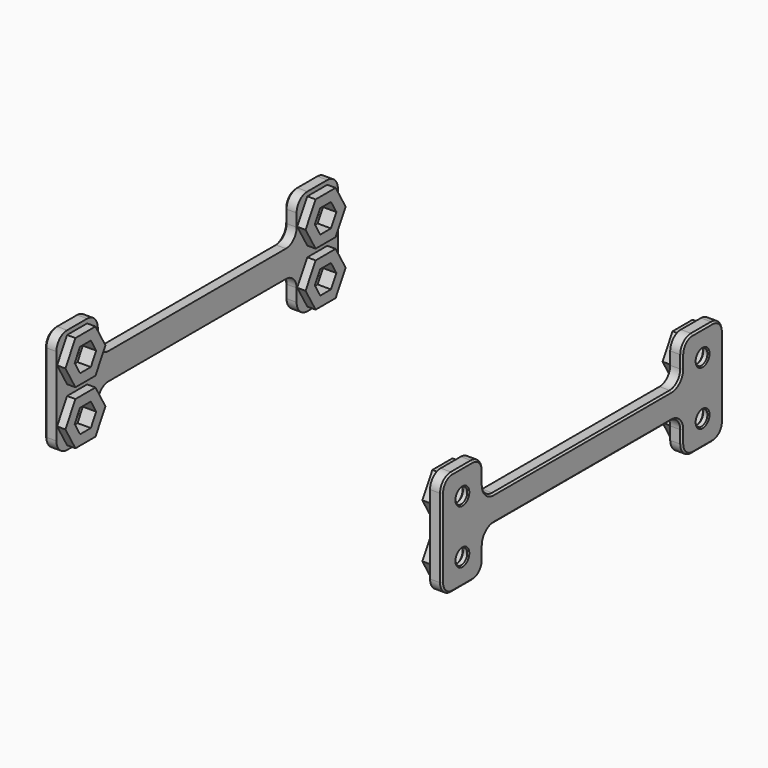
from build123d import *

# Parameters (mm, degrees)
SKETCH027_R     = 2.25
PAD010_DEPTH    = 3.5
SKETCH028_R     = 2.25
PAD011_DEPTH    = 2.5
POCKET015_DEPTH = 4
FILLET003_R     = 4
CHAMFER013_SIZE = 0.35
CHAMFER014_SIZE = 0.5
ARRAY005_COUNT  = 2


with BuildPart() as part:
    # Sketch027 → Pad010 (new body)
    with BuildSketch(Plane.YZ):
        Polygon((-37.25, 83.9), (-37.25, 72.1), (37.25, 72.1), (37.25, 83.9), (52.75, 83.9), (52.75, 52.3), (37.25, 52.3), (37.25, 64.1), (-37.25, 64.1), (-37.25, 52.3), (-52.75, 52.3), (-52.75, 83.9), align=None)
        with Locations((45, 60.05)):
            Circle(SKETCH027_R, mode=Mode.SUBTRACT)
        with Locations((45, 76.15)):
            Circle(SKETCH027_R, mode=Mode.SUBTRACT)
        with Locations((-45, 76.15)):
            Circle(SKETCH027_R, mode=Mode.SUBTRACT)
        with Locations((-45, 60.05)):
            Circle(SKETCH027_R, mode=Mode.SUBTRACT)
    extrude(amount=PAD010_DEPTH)

    # Sketch028 (on Face17 of Pad010) → Pad011 (join)
    with BuildSketch(Plane(origin=(0, 0, 0), x_dir=(0, 1, 0), z_dir=(-1, 0, 0))):
        Polygon((48.752777, -66.55), (52.505553, -60.05), (48.752777, -53.55), (41.247223, -53.55), (37.494447, -60.05), (41.247223, -66.55), align=None)
        with Locations((45, -60.05)):
            Circle(SKETCH028_R, mode=Mode.SUBTRACT)
        Polygon((48.752777, -82.65), (52.505553, -76.15), (48.752777, -69.65), (41.247223, -69.65), (37.494447, -76.15), (41.247223, -82.65), align=None)
        with Locations((45, -76.15)):
            Circle(SKETCH028_R, mode=Mode.SUBTRACT)
    pad011 = extrude(amount=PAD011_DEPTH)

    # Mirrored007: Pad011 across Sketch028 V_Axis
    add(pad011.mirror(Plane(origin=(0, 0, 0), x_dir=(-1, 0, 0), z_dir=(0, 1, 0))))

    # Sketch029 (on Face45 of Mirrored007) → Pocket015 (cut)
    with BuildSketch(Plane(origin=(-2.5, 0, 0), x_dir=(0, 1, 0), z_dir=(-1, 0, 0))):
        Polygon((-42.979274, -63.55), (-40.958548, -60.05), (-42.979274, -56.55), (-47.020726, -56.55), (-49.041452, -60.05), (-47.020726, -63.55), align=None)
        Polygon((-42.979274, -79.65), (-40.958548, -76.15), (-42.979274, -72.65), (-47.020726, -72.65), (-49.041452, -76.15), (-47.020726, -79.65), align=None)
    pocket015 = extrude(amount=-POCKET015_DEPTH, mode=Mode.SUBTRACT)

    # Mirrored008: Pocket015 across XZ
    add(pocket015.mirror(Plane.XZ), mode=Mode.SUBTRACT)

    # Fillet003
    fillet003_edges = [part.edges().sort_by_distance(p)[0] for p in [
        (1.75, 37.25, 72.1),
        (1.75, 37.25, 83.9),
        (1.75, -37.25, 83.9),
        (1.75, -37.25, 72.1),
        (1.75, -52.75, 83.9),
        (1.75, 52.75, 83.9),
        (1.75, 37.25, 64.1),
        (1.75, 37.25, 52.3),
        (1.75, 52.75, 52.3),
        (1.75, -37.25, 52.3),
        (1.75, -52.75, 52.3),
        (1.75, -37.25, 64.1),
    ]]
    fillet(fillet003_edges, radius=FILLET003_R)

    # Chamfer013
    chamfer013_edges = [part.edges().sort_by_distance(p)[0] for p in [
        (1.5, -47.25, 76.15),
        (2.5, -42.75, 76.15),
        (3.5, -47.25, 76.15),
        (1.5, -47.25, 60.05),
        (2.5, -42.75, 60.05),
        (3.5, -47.25, 60.05),
        (1.5, 42.75, 60.05),
        (2.5, 47.25, 60.05),
        (3.5, 42.75, 60.05),
        (1.5, 42.75, 76.15),
        (2.5, 47.25, 76.15),
        (3.5, 42.75, 76.15),
    ]]
    chamfer(chamfer013_edges, length=CHAMFER013_SIZE)

    # Chamfer014
    chamfer014_edges = [part.edges().sort_by_distance(p)[0] for p in [
        (3.5, 0, 72.1),
    ]]
    chamfer(chamfer014_edges, length=CHAMFER014_SIZE)


with BuildPart() as part_1:
    # Body007 placement: moved
    add(part.part.moved(Location((56, 0, 0))))

    # Array005: part ×2 about axis
    array005_axis = Axis((0, 0, 0), (0, 0, 1))


with BuildPart() as part_2:
    add(part_1.part)
    for i in range(1, ARRAY005_COUNT):
        add(part_1.part.rotate(array005_axis, i * 360 / ARRAY005_COUNT))


solid = part_2.part
